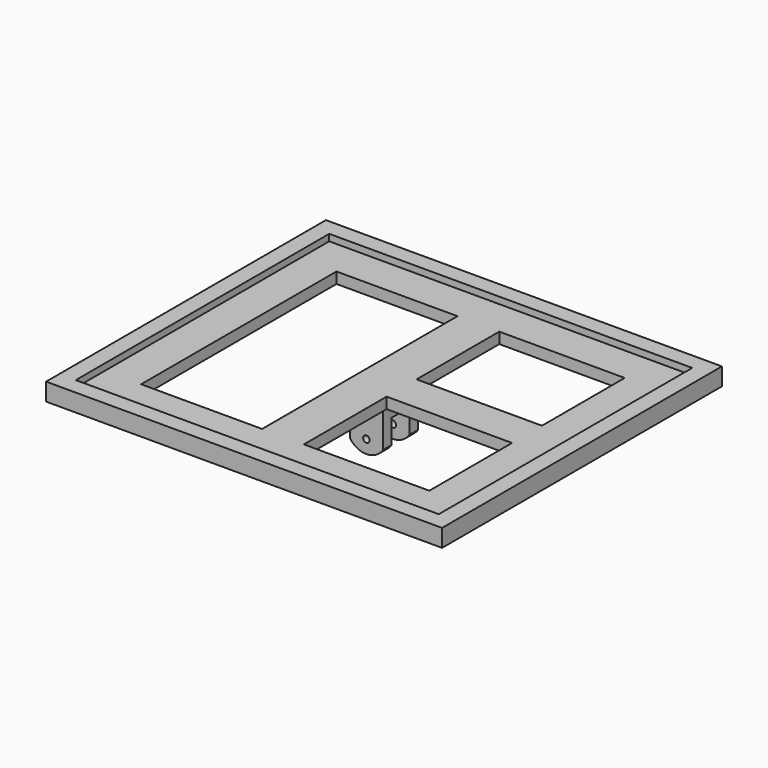
from build123d import *

# Parameters (mm, degrees)
SKETCH001_W          = 180
SKETCH001_H          = 159
PAD001_DEPTH         = 8
SKETCH002_W          = 55
SKETCH002_H          = 111
SKETCH002_W_2        = 57
SKETCH002_H_2        = 47
POCKET_DEPTH         = 8.001
SKETCH013_W          = 15
SKETCH013_H          = 20
PAD006_DEPTH         = 20
SKETCH014_W          = 10
SKETCH014_H          = 15
POCKET001_DEPTH      = 90.001
POCKET001_DEPTH_BACK = 90.001
SKETCH015_R          = 1.5
POCKET002_DEPTH      = 79.501
POCKET002_DEPTH_BACK = 79.501
SKETCH016_W          = 165
SKETCH016_H          = 144
POCKET003_DEPTH      = 3


with BuildPart() as part:
    # Sketch001 → Pad001 (new body)
    with BuildSketch(Plane.XY):
        Rectangle(SKETCH001_W, SKETCH001_H)
    extrude(amount=PAD001_DEPTH)

    # Sketch002 → Pocket (cut, through all)
    with BuildSketch(Plane(origin=(0, 0, 0), x_dir=(1, 0, 0), z_dir=(0, 0, -1))):
        with Locations((-38.5, 0)):
            Rectangle(SKETCH002_W, SKETCH002_H)
        with Locations((36.5, 32)):
            Rectangle(SKETCH002_W_2, SKETCH002_H_2)
        with Locations((36.5, -32)):
            Rectangle(SKETCH002_W_2, SKETCH002_H_2)
    extrude(amount=-POCKET_DEPTH, mode=Mode.SUBTRACT)

    # Sketch013 (on DatumPlane) → Pad006 (join)
    with BuildSketch(Plane.XY):
        Rectangle(SKETCH013_W, SKETCH013_H)
    extrude(amount=-PAD006_DEPTH)

    # Sketch014 (on Plane of DatumPlane002) → Pocket001 (cut, two sides)
    with BuildSketch(Plane.YZ) as pocket001_sk:
        with Locations((0, -12.5)):
            Rectangle(SKETCH014_W, SKETCH014_H)
    extrude(amount=-POCKET001_DEPTH, mode=Mode.SUBTRACT)
    extrude(pocket001_sk.sketch, amount=POCKET001_DEPTH_BACK, mode=Mode.SUBTRACT)

    # Sketch015 (on DatumPlane) → Pocket002 (cut, two sides)
    with BuildSketch(Plane.XZ) as pocket002_sk:
        with Locations((0, -14)):
            Circle(SKETCH015_R)
        with BuildLine():
            ThreePointArc((-7.5, -15.941091), (0, -20), (7.5, -15.941091))
            Line((7.5, -15.941091), (9.5, -15.941091))
            Line((9.5, -15.941091), (9.5, -32.907985))
            Line((9.5, -32.907985), (-9.5, -32.907985))
            Line((-9.5, -32.907985), (-9.5, -15.941091))
            Line((-9.5, -15.941091), (-7.5, -15.941091))
        make_face()
    extrude(amount=-POCKET002_DEPTH, mode=Mode.SUBTRACT)
    extrude(pocket002_sk.sketch, amount=POCKET002_DEPTH_BACK, mode=Mode.SUBTRACT)

    # Sketch016 (on DatumPlane) → Pocket003 (cut)
    with BuildSketch(Plane.XY.offset(8)):
        Rectangle(SKETCH016_W, SKETCH016_H)
    extrude(amount=-POCKET003_DEPTH, mode=Mode.SUBTRACT)


solid = part.part
